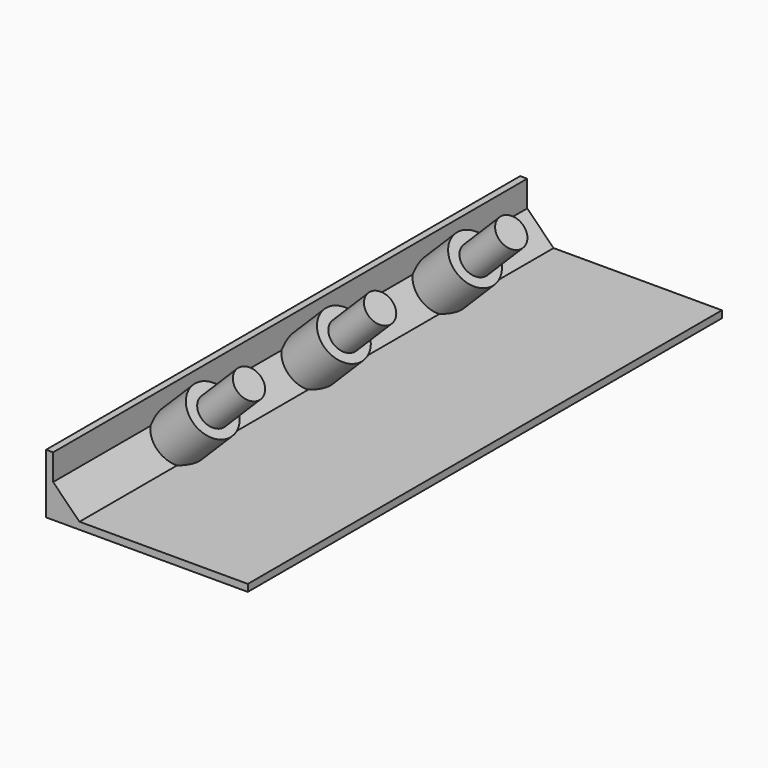
from build123d import *

# Parameters (mm, degrees)
PAD_DEPTH           = 235
SKETCH001_R         = 6
PAD001_DEPTH        = 40
SKETCH002_R         = 10
PAD002_DEPTH        = 20
LINEARPATTERN_COUNT = 3
LINEARPATTERN_PITCH = 65


with BuildPart() as part:
    # Sketch → Pad (new body)
    with BuildSketch(Plane.XZ):
        Polygon((0, 23.625182), (2.8, 23.625182), (2.8, 13.250815), (13.250815, 2.8), (80, 2.8), (80, 0), (0, 0), align=None)
    extrude(amount=PAD_DEPTH)

    # Sketch001 (on DatumPlane) → Pad001 (join)
    with BuildSketch(Plane(origin=(16, 0, 0), x_dir=(0, 1, 0), z_dir=(0.707107, 0, 0.707107))):
        with Locations((-50, 11.06395)):
            Circle(SKETCH001_R)
    pad001 = extrude(amount=PAD001_DEPTH)

    # Sketch002 (on DatumPlane) → Pad002 (join)
    with BuildSketch(Plane(origin=(16, 0, 0), x_dir=(0, 1, 0), z_dir=(0.707107, 0, 0.707107))):
        with Locations((-50, 11.382573)):
            Circle(SKETCH002_R)
    pad002 = extrude(amount=PAD002_DEPTH)

    # LinearPattern: Pad001, Pad002 ×3
    with Locations(*[(0, -i * LINEARPATTERN_PITCH, 0) for i in range(1, LINEARPATTERN_COUNT)]):
        add(pad001)
        add(pad002)


solid = part.part
